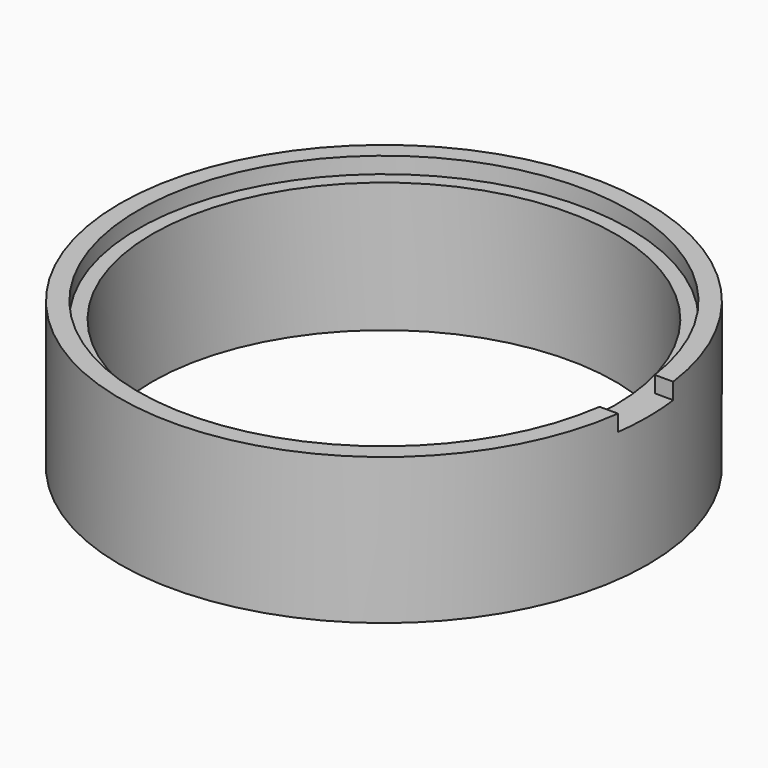
from build123d import *

# Parameters (mm, degrees)
F0_R          = 16.25
F0_R_2        = 14.25
F1_DEPTH      = 7.25
F1_DEPTH_BACK = 0.75
F2_R          = 16.25
F2_R_2        = 15.125
F3_DEPTH      = 1
F4_W          = 4
F4_H          = 4.25
F5_DEPTH      = 1


with BuildPart() as f1:
    # F0 (on Top) → F1 (new body, two sides)
    with BuildSketch(Plane.XY) as f1_sk:
        Circle(F0_R)
        Circle(F0_R_2, mode=Mode.SUBTRACT)
    extrude(amount=F1_DEPTH)
    extrude(f1_sk.sketch, amount=-F1_DEPTH_BACK)

    # F2 (on face) → F3 (join)
    with BuildSketch(Plane.XY.offset(7.25)):
        Circle(F2_R)
        Circle(F2_R_2, mode=Mode.SUBTRACT)
    extrude(amount=F3_DEPTH)

    # F4 (on face) → F5 (cut)
    with BuildSketch(Plane.XY.offset(8.25)):
        with Locations((15.125, 0)):
            Rectangle(F4_W, F4_H)
    extrude(amount=-F5_DEPTH, mode=Mode.SUBTRACT)


solid = f1.part
